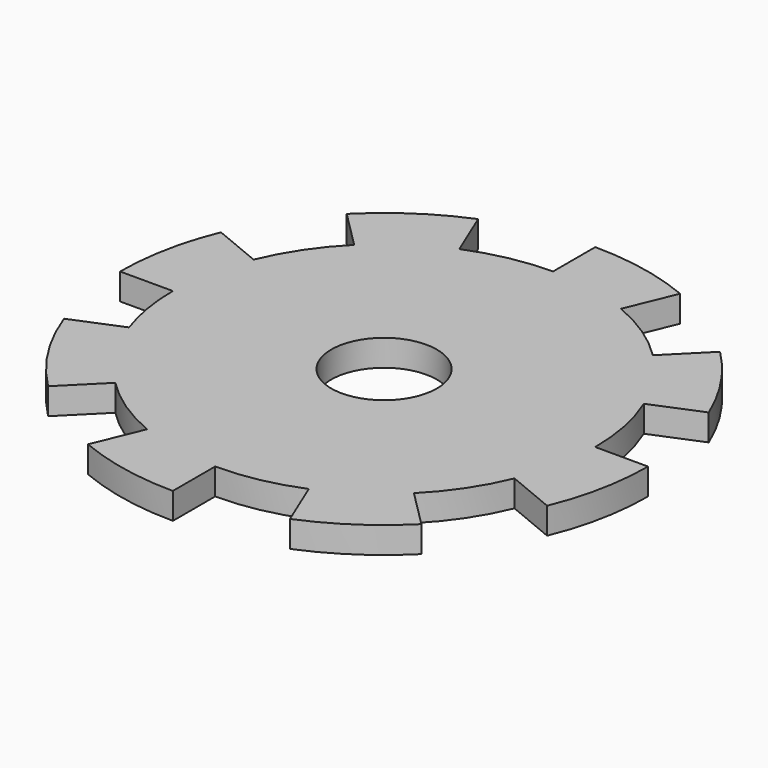
from build123d import *

# Parameters (mm, degrees)
F0_R     = 12.7
F1_DEPTH = 6.35


with BuildPart() as f1:
    # F0 (on Top) → F1 (new body)
    with BuildSketch(Plane.XY):
        with BuildLine():
            Line((-46.93308, 19.440318), (-58.66635, 24.300398))
            ThreePointArc((-58.66635, 24.300398), (-62.279865, 12.388235), (-63.5, 0))
            Line((-63.5, 0), (-50.8, 0))
            ThreePointArc((-50.8, 0), (-50.08849, -8.472496), (-47.97389, -16.707658))
            Line((-47.97389, -16.707658), (-59.72273, -21.574187))
            ThreePointArc((-59.72273, -21.574187), (-53.596494, -34.053866), (-44.901281, -44.901281))
            Line((-44.901281, -44.901281), (-35.921024, -35.921024))
            ThreePointArc((-35.921024, -35.921024), (-28.222968, -42.238656), (-19.440318, -46.93308))
            Line((-19.440318, -46.93308), (-24.300398, -58.66635))
            ThreePointArc((-24.300398, -58.66635), (-12.388235, -62.279865), (0, -63.5))
            Line((0, -63.5), (0, -50.8))
            ThreePointArc((0, -50.8), (9.910588, -49.823892), (19.440318, -46.93308))
            Line((19.440318, -46.93308), (24.300398, -58.66635))
            ThreePointArc((24.300398, -58.66635), (35.27871, -52.79832), (44.901281, -44.901281))
            Line((44.901281, -44.901281), (35.921024, -35.921024))
            ThreePointArc((35.921024, -35.921024), (42.238656, -28.222968), (46.93308, -19.440318))
            Line((46.93308, -19.440318), (58.66635, -24.300398))
            ThreePointArc((58.66635, -24.300398), (62.279865, -12.388235), (63.5, 0))
            Line((63.5, 0), (50.8, 0))
            ThreePointArc((50.8, 0), (49.823892, 9.910588), (46.93308, 19.440318))
            Line((46.93308, 19.440318), (58.66635, 24.300398))
            ThreePointArc((58.66635, 24.300398), (52.79832, 35.27871), (44.901281, 44.901281))
            Line((44.901281, 44.901281), (35.921024, 35.921024))
            ThreePointArc((35.921024, 35.921024), (28.222968, 42.238656), (19.440318, 46.93308))
            Line((19.440318, 46.93308), (24.300398, 58.66635))
            ThreePointArc((24.300398, 58.66635), (12.388235, 62.279865), (0, 63.5))
            Line((0, 63.5), (0, 50.8))
            ThreePointArc((0, 50.8), (-9.910588, 49.823892), (-19.440318, 46.93308))
            Line((-19.440318, 46.93308), (-24.300398, 58.66635))
            ThreePointArc((-24.300398, 58.66635), (-35.27871, 52.79832), (-44.901281, 44.901281))
            Line((-44.901281, 44.901281), (-35.921024, 35.921024))
            ThreePointArc((-35.921024, 35.921024), (-42.238656, 28.222968), (-46.93308, 19.440318))
        make_face()
        Circle(F0_R, mode=Mode.SUBTRACT)
    extrude(amount=F1_DEPTH)


solid = f1.part
